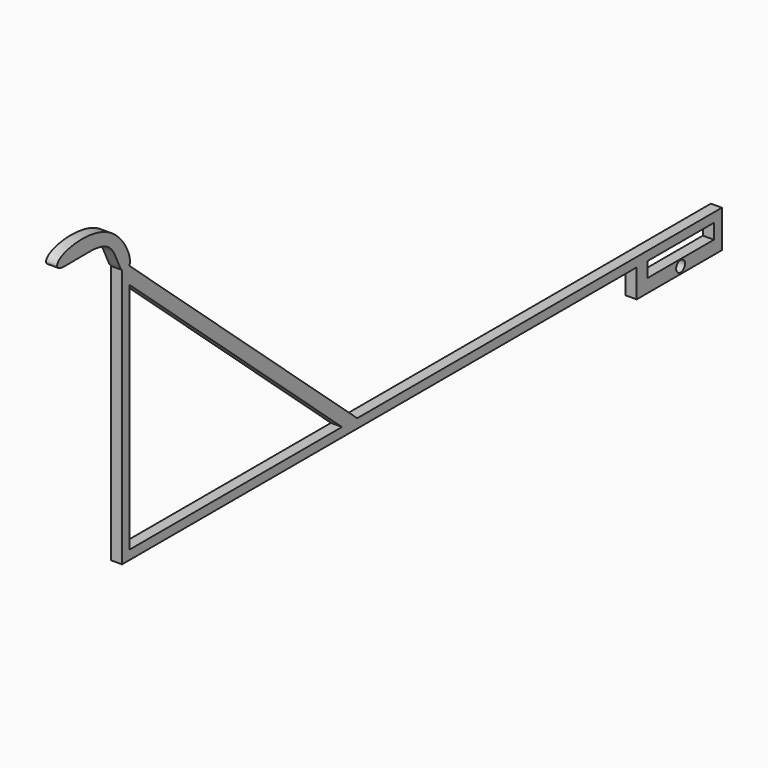
from build123d import *

# Parameters (mm, degrees)
F0_R     = 12.7
F0_W     = 191.4093263388
F0_H     = 34.3360900151
F1_DEPTH = 25.4


with BuildPart() as f1:
    # F0 (on Right) → F1 (new body)
    with BuildSketch(Plane.YZ):
        with BuildLine():
            Line((-864.8055600628, -48.0026282412), (-864.8055600628, -69.1025285475))
            Line((-864.8055600628, -69.1025285475), (613.3858169228, -69.1025285475))
            Line((613.3858169228, -69.1025285475), (613.3858169228, -133.9766403796))
            Line((613.3858169228, -133.9766403796), (643.9238902211, -133.9766403796))
            Line((643.9238902211, -133.9766403796), (835.3332165599, -133.9766403796))
            Line((835.3332165599, -133.9766403796), (858.353141199, -133.9766403796))
            Line((858.353141199, -133.9766403796), (858.353141199, -69.1025285475))
            Line((858.353141199, -69.1025285475), (858.353141199, -48.0026282412))
            Line((858.353141199, -48.0026282412), (-189.3278699892, -48.0026282412))
            Line((-189.3278699892, -48.0026282412), (-843.7140825349, 526.3836055128))
            add(Edge.make_bspline(
                [(-843.7140825349, 526.3836055128), (-847.5148883285, 519.5284165615), (-857.6515162843, 519.7110926018), (-864.8055600628, 526.3836055128)],
                knots=[0.911006337, 0.911006337, 0.911006337, 0.911006337, 1, 1, 1, 1], degree=3))
            Line((-864.8055600628, 526.3836055128), (-864.8055600628, -48.0026282412))
        make_face()
        Polygon((-232.953608756, -48.0026282412), (-843.7140825349, -48.0026282412), (-843.7140825349, 488.0911975974), align=None, mode=Mode.SUBTRACT)
        with Locations((739.6285533905, -118.0807575583)):
            Circle(F0_R, mode=Mode.SUBTRACT)
        with Locations((739.6285533905, -86.2705735551)):
            Rectangle(F0_W, F0_H, mode=Mode.SUBTRACT)
        with BuildLine():
            add(Edge.make_bspline(
                [(-864.8055600628, 526.3836055128), (-878.6628786654, 539.3082031459), (-884.8476834548, 625.7517162965), (-1053.8739878138, 587.9007950436), (-1051.8534927515, 633.9536149114), (-886.7607826829, 653.4428264783), (-835.0868356806, 541.9438341927), (-843.7140825349, 526.3836055128)],
                knots=[0, 0, 0, 0, 0.1723799267, 0.3997722529, 0.4763731431, 0.7090043561, 0.911006337, 0.911006337, 0.911006337, 0.911006337], degree=3))
            add(Edge.make_bspline(
                [(-843.7140825349, 526.3836055128), (-847.5148883285, 519.5284165615), (-857.6515162843, 519.7110926018), (-864.8055600628, 526.3836055128)],
                knots=[0.911006337, 0.911006337, 0.911006337, 0.911006337, 1, 1, 1, 1], degree=3))
        make_face()
    extrude(amount=F1_DEPTH)


solid = f1.part
